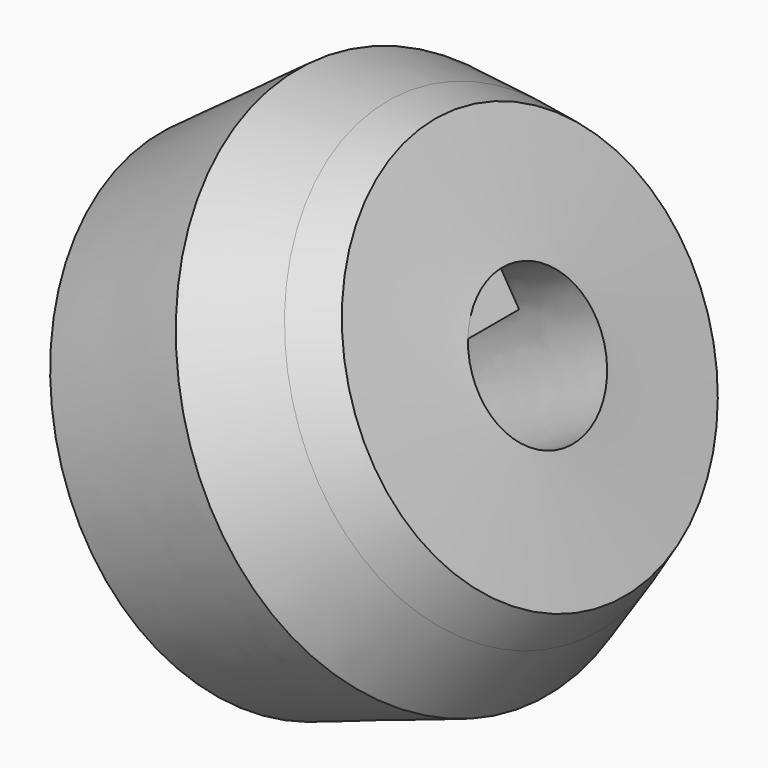
from build123d import *

# Parameters (mm, degrees)
F1_DEPTH = 25.4


with BuildPart() as f1:
    # F0 (on Front) → F1 (new body)
    with BuildSketch(Plane.XZ):
        Polygon((-7.792994, 57.398383), (-62.044207, 17.234502), (0, -28.923986), (78.529373, 4.645824), (47.057673, 56.798924), (28.174659, 57.398383), align=None)
    extrude(amount=F1_DEPTH)

    # F1_face (on face) → F3 (revolve)
    with BuildSketch(Plane(origin=(10.856926, -25.4, 17.963722), x_dir=(1, 0, 0), z_dir=(0, -1, 0))):
        Polygon((-18.64992, 39.434661), (-72.901133, -0.729219), (-10.856926, -46.887708), (67.672447, -13.317897), (36.200748, 38.835202), (17.317734, 39.434661), align=None)
    revolve(axis=Axis((49.905118, 0, -28.174661), (0.884163, 0, 0.467178)))


solid = f1.part
